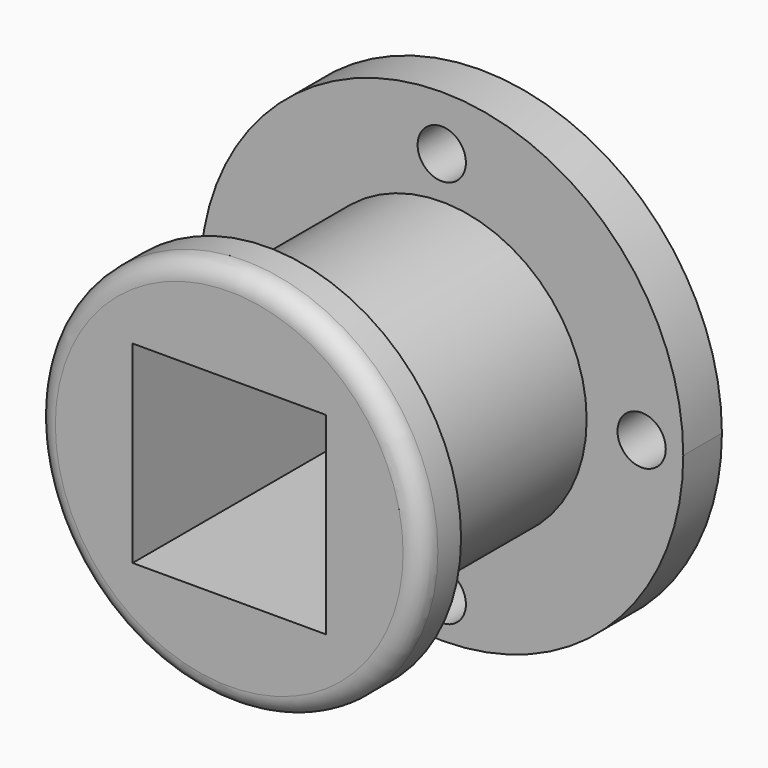
from build123d import *

# Parameters (mm, degrees)
F1_DEPTH  = 12.7
F2_R      = 38.1
F3_DEPTH  = 57.15
F4_R      = 50.8
F5_DEPTH  = 12.7
F6_R      = 5.08
F7_W      = 50.8
F7_H      = 50.8
F8_DEPTH  = 101.6
F13_R     = 6.35
F14_DEPTH = 50.8
F11_R     = 6.35
F15_DEPTH = 50.8
F10_R     = 6.35
F17_DEPTH = 50.8
F12_R     = 6.35
F18_DEPTH = 50.8


with BuildPart() as f1:
    # F0 (on Front) → F1 (new body)
    with BuildSketch(Plane.XZ):
        with BuildLine():
            ThreePointArc((42.952229, -46.769178), (58.136548, -25.54196), (63.5, 0))
            ThreePointArc((63.5, 0), (25.54196, 58.136548), (-42.952229, 46.769178))
            Line((-42.952229, 46.769178), (42.952229, -46.769178))
        make_face()
        with BuildLine():
            Line((42.952229, -46.769178), (-42.952229, 46.769178))
            ThreePointArc((-42.952229, 46.769178), (-46.769178, -42.952229), (42.952229, -46.769178))
        make_face()
    extrude(amount=F1_DEPTH)

    # F2 (on face) → F3 (join)
    with BuildSketch(Plane.XZ.offset(12.7)):
        Circle(F2_R)
    extrude(amount=F3_DEPTH)

    # F4 (on face) → F5 (join)
    with BuildSketch(Plane.XZ.offset(69.85)):
        Circle(F4_R)
    extrude(amount=F5_DEPTH)

    # F6
    f6_edges = [f1.edges().sort_by_distance(p)[0] for p in [
        (-50.8, -82.55, 0),
    ]]
    fillet(f6_edges, radius=F6_R)

    # F7 (on face) → F8 (cut)
    with BuildSketch(Plane.XZ.offset(82.55)):
        Rectangle(F7_W, F7_H)
    extrude(amount=-F8_DEPTH, mode=Mode.SUBTRACT)

    # F13 (on face) → F14 (cut)
    with BuildSketch(Plane(origin=(0, 0, 0), x_dir=(-1, 0, 0), z_dir=(0, 1, 0))):
        with Locations((0, 49.170822)):
            Circle(F13_R)
    extrude(amount=-F14_DEPTH, mode=Mode.SUBTRACT)

    # F11 (on face) → F15 (cut)
    with BuildSketch(Plane.XZ.offset(12.7)):
        with Locations((-50.349239, -2.376635)):
            Circle(F11_R)
    extrude(amount=-F15_DEPTH, mode=Mode.SUBTRACT)

    # F10 (on face) → F17 (cut)
    with BuildSketch(Plane.XZ.offset(12.7)):
        with Locations((0, -53.054459)):
            Circle(F10_R)
    extrude(amount=-F17_DEPTH, mode=Mode.SUBTRACT)

    # F12 (on face) → F18 (cut)
    with BuildSketch(Plane.XZ.offset(12.7)):
        with Locations((52.550502, 0)):
            Circle(F12_R)
    extrude(amount=-F18_DEPTH, mode=Mode.SUBTRACT)


solid = f1.part
